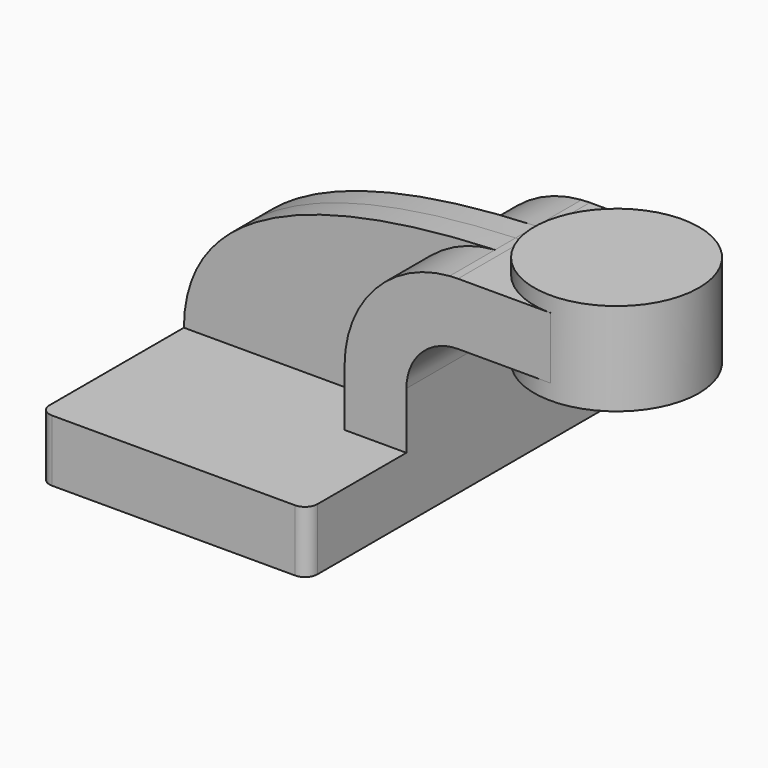
from build123d import *

# Parameters (mm, degrees)
F1_DEPTH = 63.5
F0_W     = 25.4
F0_H     = 19.05
F2_DEPTH = 25.4
F3_DEPTH = 7.9375
F5_R     = 3.81


with BuildPart() as f1:
    # F0 (on Front) → F1 (new body, symmetric)
    with BuildSketch(Plane.XZ):
        Polygon((-41.275, 9.525), (-41.275, -9.525), (41.275, -9.525), (41.275, 9.525), (22.225, 9.525), align=None)
    extrude(amount=F1_DEPTH, both=True)

    # F0 (on Front) → F2 (join, symmetric)
    with BuildSketch(Plane.XZ):
        with BuildLine():
            Line((22.225, 9.525), (41.275, 9.525))
            Line((41.275, 9.525), (41.275, 26.9748))
            ThreePointArc((41.275, 26.9748), (45.9321193364, 38.2180806636), (57.1754, 42.8752))
            Line((57.1754, 42.8752), (60.325, 42.8752))
            Line((60.325, 42.8752), (60.325, 61.9252))
            Line((60.325, 61.9252), (57.1754, 61.9252))
            add(Edge.make_bspline(
                [(54.6208637245, 61.8317190345), (55.4687004338, 61.8657926322), (56.3202398736, 61.8969441425), (57.1754, 61.9252)],
                knots=[109.8588727224, 109.8588727224, 109.8588727224, 109.8588727224, 111.52695737, 111.52695737, 111.52695737, 111.52695737], degree=3))
            ThreePointArc((54.6208637245, 61.8317190345), (31.5744964534, 50.7681645741), (22.225, 26.9748))
            Line((22.225, 26.9748), (22.225, 9.525))
        make_face()
        with Locations((73.025, 52.4002)):
            Rectangle(F0_W, F0_H)
    extrude(amount=F2_DEPTH, both=True)

    # F0 (on Front) → F3 (join, symmetric)
    with BuildSketch(Plane.XZ):
        with BuildLine():
            add(Edge.make_bspline(
                [(-41.275, 9.525), (-40.9945916921, 44.669196012), (-1.2170610924, 59.5876560379), (54.6208637245, 61.8317190345)],
                knots=[0, 0, 0, 0, 109.8588727224, 109.8588727224, 109.8588727224, 109.8588727224], degree=3))
            Line((-41.275, 9.525), (22.225, 9.525))
            Line((22.225, 9.525), (22.225, 26.9748))
            ThreePointArc((22.225, 26.9748), (31.5744964534, 50.7681645741), (54.6208637245, 61.8317190345))
        make_face()
    extrude(amount=F3_DEPTH, both=True)

    # F5
    f5_edges = [f1.edges().sort_by_distance(p)[0] for p in [
        (-41.275, -63.5, 0),
        (41.275, -63.5, 0),
        (41.275, 63.5, 0),
        (-41.275, 63.5, 0),
    ]]
    fillet(f5_edges, radius=F5_R)


with BuildPart() as f4:
    # F0 (on Front) → F4 (revolve)
    with BuildSketch(Plane.XZ):
        Polygon((85.725, 66.675), (85.725, 61.9252), (85.725, 42.8752), (85.725, 38.1), (111.125, 38.1), (111.125, 66.675), align=None)
    revolve(axis=Axis((85.725, 0, 52.3875), (0, 0, 1)))


solid = Compound([f1.part, f4.part])
